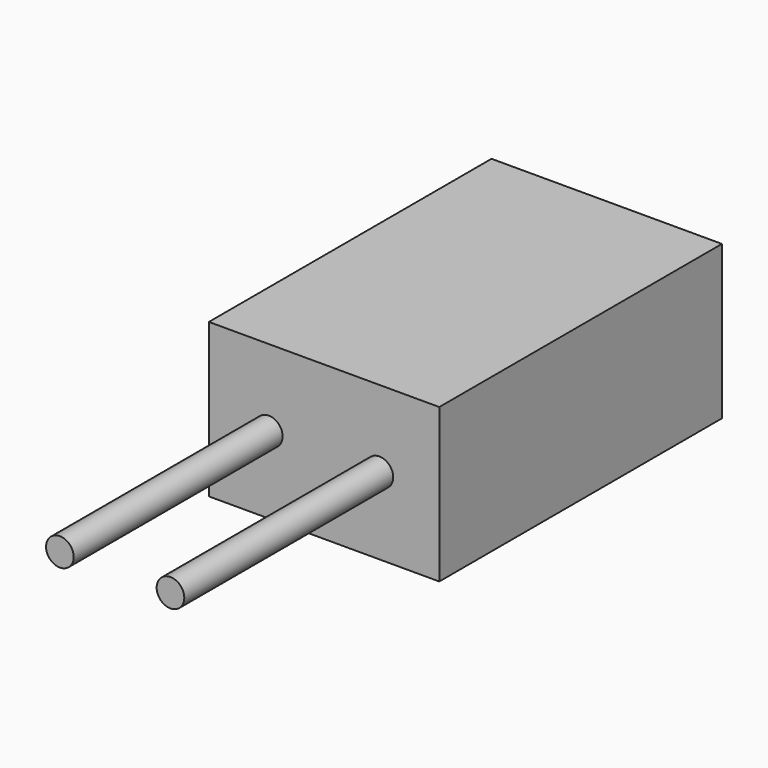
from build123d import *

# Parameters (mm, degrees)
F0_R          = 2.286
F1_DEPTH      = 50.8
F0_W          = 38.1
F0_H          = 25.4
F2_DEPTH      = 50.8
F2_DEPTH_BACK = 7.62


with BuildPart() as f1:
    # F0 (on Front) → F1 (new body)
    with BuildSketch(Plane.XZ):
        with Locations((9.906, 12.7)):
            Circle(F0_R)
    extrude(amount=F1_DEPTH)


with BuildPart() as f1b:
    # F0 (on Front) → F1, piece 2 (new body)
    with BuildSketch(Plane.XZ):
        with Locations((28.194, 12.7)):
            Circle(F0_R)
    extrude(amount=F1_DEPTH)


with BuildPart() as f2:
    # F0 (on Front) → F2 (new body, two sides)
    with BuildSketch(Plane.XZ) as f2_sk:
        with Locations((19.05, 12.7)):
            Rectangle(F0_W, F0_H)
        with Locations((9.906, 12.7)):
            Circle(F0_R, mode=Mode.SUBTRACT)
        with Locations((28.194, 12.7)):
            Circle(F0_R, mode=Mode.SUBTRACT)
    extrude(amount=-F2_DEPTH)
    extrude(f2_sk.sketch, amount=F2_DEPTH_BACK)


solid = Compound([f1.part, f1b.part, f2.part])
